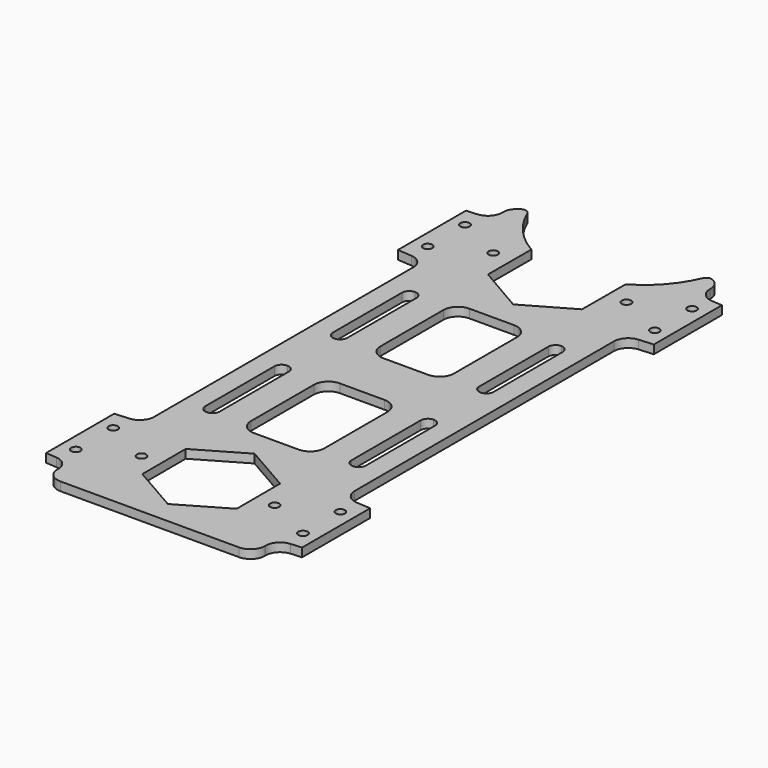
from build123d import *

# Parameters (mm, degrees)
F0_R     = 1.6
F1_DEPTH = 3
F3_DEPTH = 25
F4_R     = 2


with BuildPart() as f1:
    # F0 (on Top) → F1 (new body)
    with BuildSketch(Plane.XY):
        with BuildLine():
            Line((-44.408627, -61.525488), (-44.408627, -91.060406))
            Line((-44.408627, -91.060406), (-40.651218, -91.32315))
            ThreePointArc((-40.651218, -91.32315), (-37.343231, -92.900978), (-36, -96.31097))
            Line((-36, -96.31097), (-36, -96.648395))
            ThreePointArc((-36, -96.648395), (-34.535534, -100.183929), (-31, -101.648395))
            Line((-31, -101.648395), (0, -101.648395))
            Line((0, -101.648395), (31, -101.648395))
            ThreePointArc((31, -101.648395), (34.535534, -100.183929), (36, -96.648395))
            Line((36, -96.648395), (36, -96.31097))
            ThreePointArc((36, -96.31097), (37.343231, -92.900978), (40.651218, -91.32315))
            Line((40.651218, -91.32315), (44.408627, -91.060406))
            Line((44.408627, -91.060406), (44.408627, -61.525488))
            Line((44.408627, -61.525488), (39.450638, -61.178791))
            ThreePointArc((39.450638, -61.178791), (36.142652, -59.600963), (34.799421, -56.190971))
            Line((34.799421, -56.190971), (34.799421, 0))
            Line((34.799421, 0), (34.799421, 56.190971))
            ThreePointArc((34.799421, 56.190971), (36.142652, 59.600963), (39.450638, 61.178791))
            Line((39.450638, 61.178791), (44.408627, 61.525488))
            Line((44.408627, 61.525488), (44.408627, 91.060406))
            Line((44.408627, 91.060406), (40.651218, 91.32315))
            ThreePointArc((40.651218, 91.32315), (37.343231, 92.900978), (36, 96.31097))
            Line((36, 96.31097), (36, 96.648395))
            ThreePointArc((36, 96.648395), (34.535534, 100.183929), (31, 101.648395))
            Line((31, 101.648395), (-31, 101.648395))
            ThreePointArc((-31, 101.648395), (-34.535534, 100.183929), (-36, 96.648395))
            Line((-36, 96.648395), (-36, 96.31097))
            ThreePointArc((-36, 96.31097), (-37.343231, 92.900978), (-40.651218, 91.32315))
            Line((-40.651218, 91.32315), (-44.408627, 91.060406))
            Line((-44.408627, 91.060406), (-44.408627, 61.525488))
            Line((-44.408627, 61.525488), (-39.450638, 61.178791))
            ThreePointArc((-39.450638, 61.178791), (-36.142652, 59.600963), (-34.799421, 56.190971))
            Line((-34.799421, 56.190971), (-34.799421, 0))
            Line((-34.799421, 0), (-34.799421, -56.190971))
            ThreePointArc((-34.799421, -56.190971), (-36.142652, -59.600963), (-39.450638, -61.178791))
            Line((-39.450638, -61.178791), (-44.408627, -61.525488))
        make_face()
        with Locations((-39.408627, -84.392947)):
            Circle(F0_R, mode=Mode.SUBTRACT)
        with Locations((-23.110468, -76.292947)):
            Circle(F0_R, mode=Mode.SUBTRACT)
        with Locations((-39.408627, -68.192947)):
            Circle(F0_R, mode=Mode.SUBTRACT)
        with BuildLine():
            ThreePointArc((-22.877386, -42.681136), (-23.609619, -44.448903), (-25.377386, -45.181136))
            ThreePointArc((-25.377386, -45.181136), (-27.145153, -44.448903), (-27.877386, -42.681136))
            Line((-27.877386, -42.681136), (-27.877386, -12.681136))
            ThreePointArc((-27.877386, -12.681136), (-27.145153, -10.913369), (-25.377386, -10.181136))
            ThreePointArc((-25.377386, -10.181136), (-23.609619, -10.913369), (-22.877386, -12.681136))
            Line((-22.877386, -12.681136), (-22.877386, -42.681136))
        make_face(mode=Mode.SUBTRACT)
        Polygon((16.318487, -65.480797), (16.364526, -84.350343), (0.046039, -93.824987), (-16.318487, -84.430085), (-16.364526, -65.560539), (-0.046039, -56.085895), align=None, mode=Mode.SUBTRACT)
        with Locations((23.110468, -76.292947)):
            Circle(F0_R, mode=Mode.SUBTRACT)
        with Locations((39.408627, -84.392947)):
            Circle(F0_R, mode=Mode.SUBTRACT)
        with Locations((39.408627, -68.192947)):
            Circle(F0_R, mode=Mode.SUBTRACT)
        with BuildLine():
            ThreePointArc((12.763027, -41.744589), (11.298561, -45.280123), (7.763027, -46.744589))
            Line((7.763027, -46.744589), (-7.763027, -46.744589))
            ThreePointArc((-7.763027, -46.744589), (-11.298561, -45.280123), (-12.763027, -41.744589))
            Line((-12.763027, -41.744589), (-12.763027, -14.446382))
            ThreePointArc((-12.763027, -14.446382), (-11.298561, -10.910848), (-7.763027, -9.446382))
            Line((-7.763027, -9.446382), (7.763027, -9.446382))
            ThreePointArc((7.763027, -9.446382), (11.298561, -10.910848), (12.763027, -14.446382))
            Line((12.763027, -14.446382), (12.763027, -41.744589))
        make_face(mode=Mode.SUBTRACT)
        with BuildLine():
            ThreePointArc((25.377386, -45.181136), (23.609619, -44.448903), (22.877386, -42.681136))
            Line((22.877386, -42.681136), (22.877386, -12.681136))
            ThreePointArc((22.877386, -12.681136), (23.609619, -10.913369), (25.377386, -10.181136))
            ThreePointArc((25.377386, -10.181136), (27.145153, -10.913369), (27.877386, -12.681136))
            Line((27.877386, -12.681136), (27.877386, -42.681136))
            ThreePointArc((27.877386, -42.681136), (27.145153, -44.448903), (25.377386, -45.181136))
        make_face(mode=Mode.SUBTRACT)
        with BuildLine():
            ThreePointArc((-22.877386, 12.681136), (-23.609619, 10.913369), (-25.377386, 10.181136))
            ThreePointArc((-25.377386, 10.181136), (-27.145153, 10.913369), (-27.877386, 12.681136))
            Line((-27.877386, 12.681136), (-27.877386, 42.681136))
            ThreePointArc((-27.877386, 42.681136), (-27.145153, 44.448903), (-25.377386, 45.181136))
            ThreePointArc((-25.377386, 45.181136), (-23.609619, 44.448903), (-22.877386, 42.681136))
            Line((-22.877386, 42.681136), (-22.877386, 12.681136))
        make_face(mode=Mode.SUBTRACT)
        with Locations((-39.408627, 68.192947)):
            Circle(F0_R, mode=Mode.SUBTRACT)
        with Locations((-39.408627, 84.392947)):
            Circle(F0_R, mode=Mode.SUBTRACT)
        with Locations((-23.110468, 76.292947)):
            Circle(F0_R, mode=Mode.SUBTRACT)
        with BuildLine():
            ThreePointArc((12.763027, 14.446382), (11.298561, 10.910848), (7.763027, 9.446382))
            Line((7.763027, 9.446382), (-7.763027, 9.446382))
            ThreePointArc((-7.763027, 9.446382), (-11.298561, 10.910848), (-12.763027, 14.446382))
            Line((-12.763027, 14.446382), (-12.763027, 41.744589))
            ThreePointArc((-12.763027, 41.744589), (-11.298561, 45.280123), (-7.763027, 46.744589))
            Line((-7.763027, 46.744589), (7.763027, 46.744589))
            ThreePointArc((7.763027, 46.744589), (11.298561, 45.280123), (12.763027, 41.744589))
            Line((12.763027, 41.744589), (12.763027, 14.446382))
        make_face(mode=Mode.SUBTRACT)
        with BuildLine():
            ThreePointArc((22.877386, 42.681136), (23.609619, 44.448903), (25.377386, 45.181136))
            ThreePointArc((25.377386, 45.181136), (27.145153, 44.448903), (27.877386, 42.681136))
            Line((27.877386, 42.681136), (27.877386, 12.681136))
            ThreePointArc((27.877386, 12.681136), (27.145153, 10.913369), (25.377386, 10.181136))
            ThreePointArc((25.377386, 10.181136), (23.609619, 10.913369), (22.877386, 12.681136))
            Line((22.877386, 12.681136), (22.877386, 42.681136))
        make_face(mode=Mode.SUBTRACT)
        Polygon((-0.046039, 56.085895), (-16.364526, 65.560539), (-16.318487, 84.430085), (0.046039, 93.824987), (16.364526, 84.350343), (16.318487, 65.480797), align=None, mode=Mode.SUBTRACT)
        with Locations((39.408627, 68.192947)):
            Circle(F0_R, mode=Mode.SUBTRACT)
        with Locations((23.110468, 76.292947)):
            Circle(F0_R, mode=Mode.SUBTRACT)
        with Locations((39.408627, 84.392947)):
            Circle(F0_R, mode=Mode.SUBTRACT)
    extrude(amount=F1_DEPTH)

    # F2 (on Top) → F3 (cut)
    with BuildSketch(Plane.XY):
        with BuildLine():
            Line((31, 101.648395), (-31, 101.648395))
            ThreePointArc((-31, 101.648395), (-11.329383, 82.014911), (16.364526, 84.350343))
            ThreePointArc((16.364526, 84.350343), (25.212204, 91.704922), (31, 101.648395))
        make_face()
    extrude(amount=F3_DEPTH, mode=Mode.SUBTRACT)

    # F4
    f4_edges = [f1.edges().sort_by_distance(p)[0] for p in [
        (31, 101.648395, 1.5),
        (-31, 101.648395, 1.5),
    ]]
    fillet(f4_edges, radius=F4_R)


solid = f1.part
